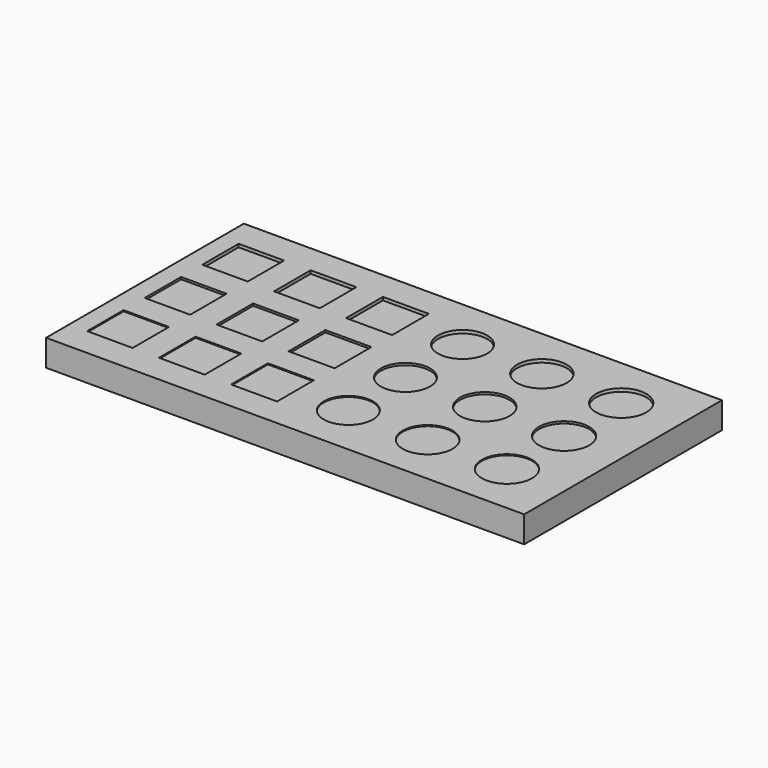
from build123d import *

# Parameters (mm, degrees)
F3_W      = 452.06105
F3_H      = 233.740471
F4_DEPTH  = 25
F0_W      = 43
F0_H      = 43
F0_W_2    = 43.25
F0_H_2    = 43.25
F0_W_3    = 43.5
F0_H_3    = 43.5
F5_DEPTH  = 1
F1_W      = 43
F1_H      = 43
F1_W_2    = 43.25
F1_H_2    = 43.25
F1_W_3    = 43.5
F1_H_3    = 43.5
F6_DEPTH  = 2
F2_W      = 43
F2_H      = 43
F2_W_2    = 43.25
F2_H_2    = 43.25
F2_W_3    = 43.5
F2_H_3    = 43.5
F7_DEPTH  = 3
F8_R      = 23.25
F8_R_2    = 23.5
F8_R_3    = 23.75
F11_DEPTH = 1
F9_R      = 23.25
F9_R_2    = 23.5
F9_R_3    = 23.75
F12_DEPTH = 2
F10_R     = 23.25
F10_R_2   = 23.5
F10_R_3   = 23.75
F13_DEPTH = 3


with BuildPart() as f4:
    # F3 (on Top) → F4 (new body)
    with BuildSketch(Plane.XY):
        with Locations((187.43575, 68.15933)):
            Rectangle(F3_W, F3_H)
    extrude(amount=-F4_DEPTH)

    # F0 (on Top) → F5 (cut)
    with BuildSketch(Plane.XY):
        Rectangle(F0_W, F0_H)
        with Locations((68.125, 0)):
            Rectangle(F0_W_2, F0_H_2)
        with Locations((136.5, 0)):
            Rectangle(F0_W_3, F0_H_3)
    extrude(amount=-F5_DEPTH, mode=Mode.SUBTRACT)

    # F1 (on Top) → F6 (cut)
    with BuildSketch(Plane.XY):
        with Locations((0, 68)):
            Rectangle(F1_W, F1_H)
        with Locations((68.125, 68)):
            Rectangle(F1_W_2, F1_H_2)
        with Locations((136.5, 68)):
            Rectangle(F1_W_3, F1_H_3)
    extrude(amount=-F6_DEPTH, mode=Mode.SUBTRACT)

    # F2 (on Top) → F7 (cut)
    with BuildSketch(Plane.XY):
        with Locations((0, 136)):
            Rectangle(F2_W, F2_H)
        with Locations((68.125, 136)):
            Rectangle(F2_W_2, F2_H_2)
        with Locations((136.5, 136)):
            Rectangle(F2_W_3, F2_H_3)
    extrude(amount=-F7_DEPTH, mode=Mode.SUBTRACT)

    # F8 (on face) → F11 (cut)
    with BuildSketch(Plane.XY):
        with Locations((208.25, 0)):
            Circle(F8_R)
        with Locations((283.25, 0)):
            Circle(F8_R_2)
        with Locations((358.25, 0)):
            Circle(F8_R_3)
    extrude(amount=-F11_DEPTH, mode=Mode.SUBTRACT)

    # F9 (on face) → F12 (cut)
    with BuildSketch(Plane.XY):
        with Locations((208.25, 67.5)):
            Circle(F9_R)
        with Locations((283.25, 67.5)):
            Circle(F9_R_2)
        with Locations((358.25, 67.5)):
            Circle(F9_R_3)
    extrude(amount=-F12_DEPTH, mode=Mode.SUBTRACT)

    # F10 (on face) → F13 (cut)
    with BuildSketch(Plane.XY):
        with Locations((208.25, 135)):
            Circle(F10_R)
        with Locations((283.25, 135)):
            Circle(F10_R_2)
        with Locations((358.25, 135)):
            Circle(F10_R_3)
    extrude(amount=-F13_DEPTH, mode=Mode.SUBTRACT)


solid = f4.part
